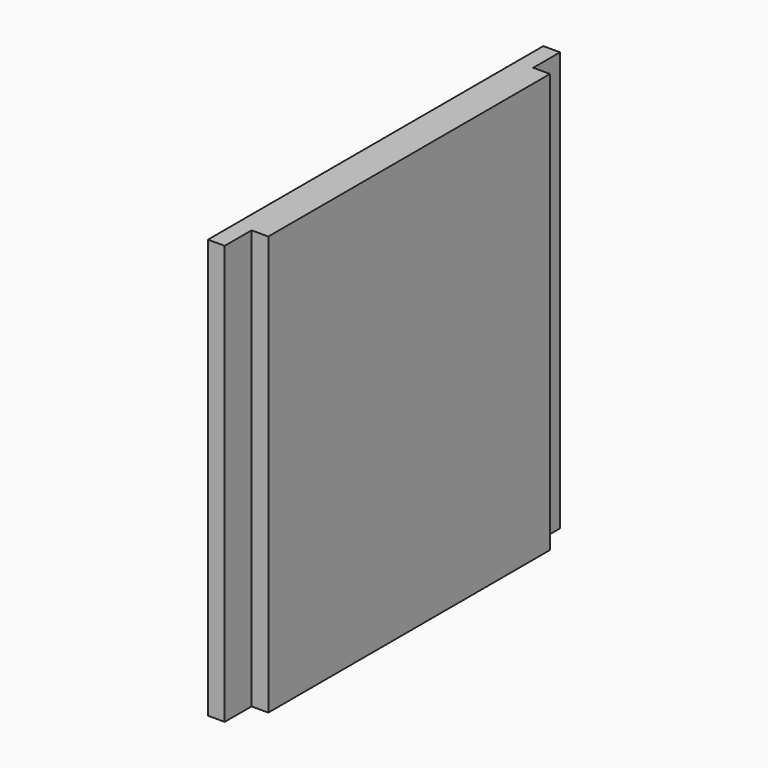
from build123d import *

# Parameters (mm, degrees)
F1_DEPTH = 75


with BuildPart() as f1:
    # F0 (on Top) → F1 (new body, symmetric)
    with BuildSketch(Plane.XY):
        Polygon((0, 75), (-6, 75), (-6, -75), (0, -75), (0, -63), (6, -63), (6, 63), (0, 63), align=None)
    extrude(amount=F1_DEPTH, both=True)


solid = f1.part
